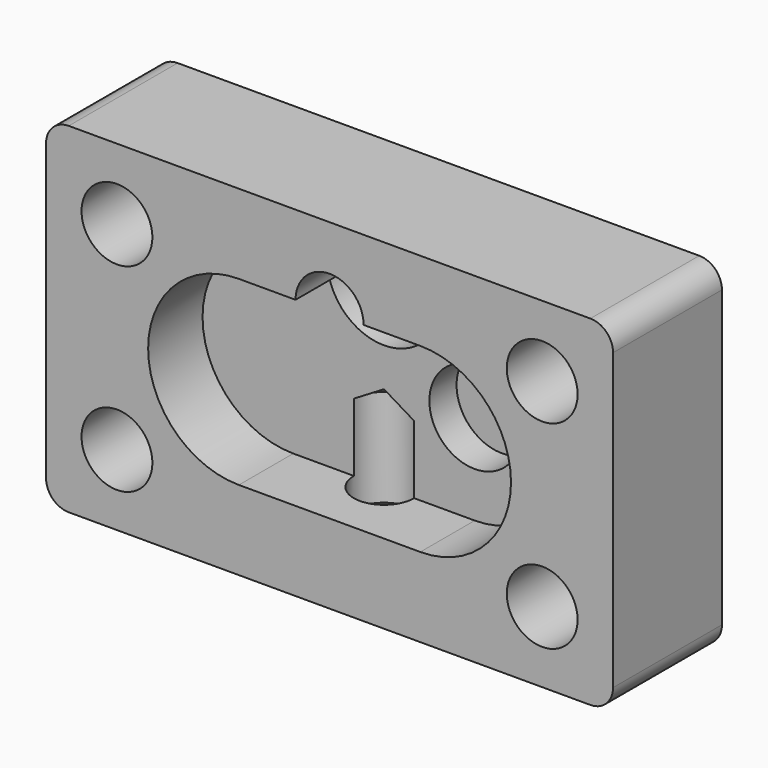
from build123d import *

# Parameters (mm, degrees)
F0_W      = 63.5
F0_H      = 38.1
F0_R      = 3.96875
F1_DEPTH  = 15.24
F3_DEPTH  = 7.62
F4_R      = 5.08
F5_DEPTH  = 3.81
F7_DEPTH  = 25.4
F8_R      = 6.35
F8_R_2    = 3.81
F9_DEPTH  = 7.62
F11_D     = 6.7564
F11_DEPTH = 16.51
F11_TIP   = 2.0298273432
F13_D     = 12.7
F13_DEPTH = 3.81
F13_TIP   = 3.8154649308
F14_R     = 2.54


with BuildPart() as f1:
    # F0 (on Front) → F1 (new body)
    with BuildSketch(Plane.XZ):
        Rectangle(F0_W, F0_H)
        with Locations((-23.8125, -11.1252)):
            Circle(F0_R, mode=Mode.SUBTRACT)
        with Locations((23.8125, -11.1125)):
            Circle(F0_R, mode=Mode.SUBTRACT)
        with Locations((-23.8125, 11.1125)):
            Circle(F0_R, mode=Mode.SUBTRACT)
        with Locations((23.8125, 11.1125)):
            Circle(F0_R, mode=Mode.SUBTRACT)
    extrude(amount=F1_DEPTH)

    # F2 (on face) → F3 (cut)
    with BuildSketch(Plane.XZ.offset(15.24)):
        with BuildLine():
            ThreePointArc((10.16, -10.16), (17.3442048969, -7.1842048969), (20.32, 0))
            ThreePointArc((20.32, 0), (17.3442048969, 7.1842048969), (10.16, 10.16))
            ThreePointArc((10.16, 10.16), (2.9757951031, 7.1842048969), (0, 0))
            ThreePointArc((0, 0), (2.9757951031, -7.1842048969), (10.16, -10.16))
        make_face()
        with BuildLine():
            ThreePointArc((0, 0), (2.9757951031, 7.1842048969), (10.16, 10.16))
            Line((10.16, 10.16), (-10.16, 10.16))
            ThreePointArc((-10.16, 10.16), (-2.9757951031, 7.1842048969), (0, 0))
        make_face()
        with BuildLine():
            Line((-10.16, -10.16), (10.16, -10.16))
            ThreePointArc((10.16, -10.16), (2.9757951031, -7.1842048969), (0, 0))
            ThreePointArc((0, 0), (-2.9757951031, -7.1842048969), (-10.16, -10.16))
        make_face()
        with BuildLine():
            ThreePointArc((-10.16, -10.16), (-2.9757951031, -7.1842048969), (0, 0))
            ThreePointArc((0, 0), (-2.9757951031, 7.1842048969), (-10.16, 10.16))
            ThreePointArc((-10.16, 10.16), (-20.32, 0), (-10.16, -10.16))
        make_face()
    extrude(amount=-F3_DEPTH, mode=Mode.SUBTRACT)

    # F4 (on face) → F5 (cut)
    with BuildSketch(Plane.XZ.offset(7.62)):
        with Locations((10.16, 0)):
            Circle(F4_R)
    extrude(amount=-F5_DEPTH, mode=Mode.SUBTRACT)

    # F6 (on face) → F7 (cut)
    with BuildSketch(Plane.XZ.offset(15.24)):
        with BuildLine():
            ThreePointArc((-3.81, 10.16), (0, 6.35), (3.81, 10.16))
            Line((3.81, 10.16), (-3.81, 10.16))
        make_face()
        with BuildLine():
            Line((-3.81, 10.16), (3.81, 10.16))
            ThreePointArc((3.81, 10.16), (0, 13.97), (-3.81, 10.16))
        make_face()
    extrude(amount=-F7_DEPTH, mode=Mode.SUBTRACT)

    # F8 (on face) → F9 (cut)
    with BuildSketch(Plane(origin=(0, 0, 0), x_dir=(-1, 0, 0), z_dir=(0, 1, 0))):
        with Locations((0, 10.16)):
            Circle(F8_R)
        with Locations((0, 10.16)):
            Circle(F8_R_2, mode=Mode.SUBTRACT)
    extrude(amount=-F9_DEPTH, mode=Mode.SUBTRACT)

    # F11
    with Locations(Plane(origin=(0, 0, -19.05), x_dir=(1, 0, 0), z_dir=(0, 0, -1))):
        with Locations((0, 7.62)):
            Hole(F11_D / 2, depth=F11_DEPTH)
            with Locations((0, 0, -(F11_DEPTH + F11_TIP / 2))):  # 118° drill point
                Cone(0, F11_D / 2, F11_TIP, mode=Mode.SUBTRACT)

    # F13
    with Locations(Plane(origin=(0, 0, -19.05), x_dir=(1, 0, 0), z_dir=(0, 0, -1))):
        with Locations((0, 7.62)):
            Hole(F13_D / 2, depth=F13_DEPTH)
            with Locations((0, 0, -(F13_DEPTH + F13_TIP / 2))):  # 118° drill point
                Cone(0, F13_D / 2, F13_TIP, mode=Mode.SUBTRACT)

    # F14
    f14_edges = [f1.edges().sort_by_distance(p)[0] for p in [
        (31.75, -7.62, -19.05),
        (-31.75, -7.62, -19.05),
        (31.75, -7.62, 19.05),
        (-31.75, -7.62, 19.05),
    ]]
    fillet(f14_edges, radius=F14_R)


solid = f1.part
